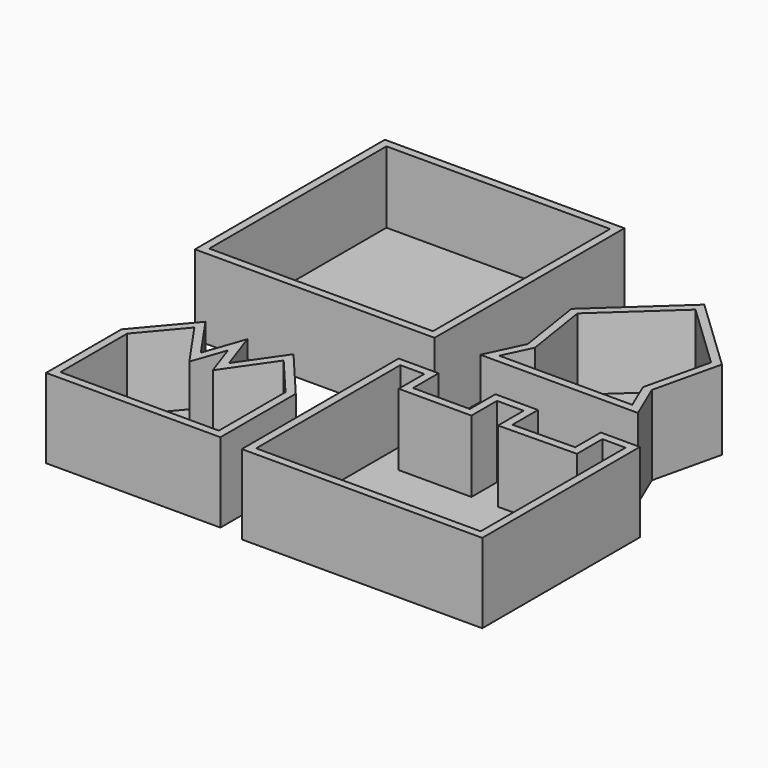
from build123d import *

# Parameters (mm, degrees)
F0_W      = 76.4697343111
F0_H      = 75.7616832852
F1_DEPTH  = 25.4
F2_T      = -2.54
F4_DEPTH  = 25.4
F5_T      = -2.54
F7_DEPTH  = 25.4
F8_T      = -2.54
F10_DEPTH = 25.4
F11_T     = -2.54


with BuildPart() as f1:
    # F0 (on Top) → F1 (new body)
    with BuildSketch(Plane.XY):
        with Locations((-38.2348671556, 37.8808416426)):
            Rectangle(F0_W, F0_H)
    extrude(amount=F1_DEPTH)

    # F2
    f2_openings = [f1.faces().sort_by_distance(p)[0] for p in [
        (-38.234867, 37.880842, 25.4),
    ]]
    offset(amount=F2_T, openings=f2_openings)


with BuildPart() as f4:
    # F3 (on Top) → F4 (new body)
    with BuildSketch(Plane.XY):
        Polygon((0, -27.3308493197), (0, -76.8945664167), (75.3368511796, -76.8945664167), (76.7529606819, -76.8945664167), (76.7529606819, -26.1979643255), (76.7529606819, -14.0194511041), (64.291216433, -14.0194511041), (64.291216433, -24.2154151201), (44.4657355547, -24.4986377656), (44.4657355547, -14.3026728183), (30.8711137623, -14.3026728183), (30.8711137623, -24.4986377656), (12.7449575812, -24.4986377656), (12.7449575812, -14.3026728183), (0, -14.3026728183), align=None)
    extrude(amount=F4_DEPTH)

    # F5
    f5_openings = [f4.faces().sort_by_distance(p)[0] for p in [
        (38.375371, -47.8518, 25.4),
    ]]
    offset(amount=F5_T, openings=f5_openings, kind=Kind.INTERSECTION)


with BuildPart() as f7:
    # F6 (on Top) → F7 (new body)
    with BuildSketch(Plane.XY):
        Polygon((-63.7927651405, -45.1716035604), (-63.7927651405, -75.2418413758), (-35.9707735479, -75.2418413758), (-8.1487819552, -75.2418413758), (-8.1487819552, -45.1716035604), (-21.9192616642, -28.8718529046), (-31.4742922783, -42.6423326135), (-35.9707735479, -29.7149419785), (-40.4672548175, -42.6423326135), (-50.0222854316, -28.8718529046), align=None)
    extrude(amount=F7_DEPTH)

    # F8
    f8_openings = [f7.faces().sort_by_distance(p)[0] for p in [
        (-35.970774, -55.60192, 25.4),
    ]]
    offset(amount=F8_T, openings=f8_openings, kind=Kind.INTERSECTION)


with BuildPart() as f10:
    # F9 (on Top) → F10 (new body)
    with BuildSketch(Plane.XY):
        Polygon((20.2352758497, 11.8775321171), (14.6146714687, 0), (64.9190843105, 0), (59.8605386913, 11.8775321171), (64.9190843105, 33.5168614984), (41.3125418127, 55.9992827475), (16.8629139662, 33.5168614984), align=None)
    extrude(amount=F10_DEPTH)

    # F11
    f11_openings = [f10.faces().sort_by_distance(p)[0] for p in [
        (40.476026, 23.263957, 25.4),
    ]]
    offset(amount=F11_T, openings=f11_openings, kind=Kind.INTERSECTION)


solid = Compound([f1.part, f4.part, f7.part, f10.part])
